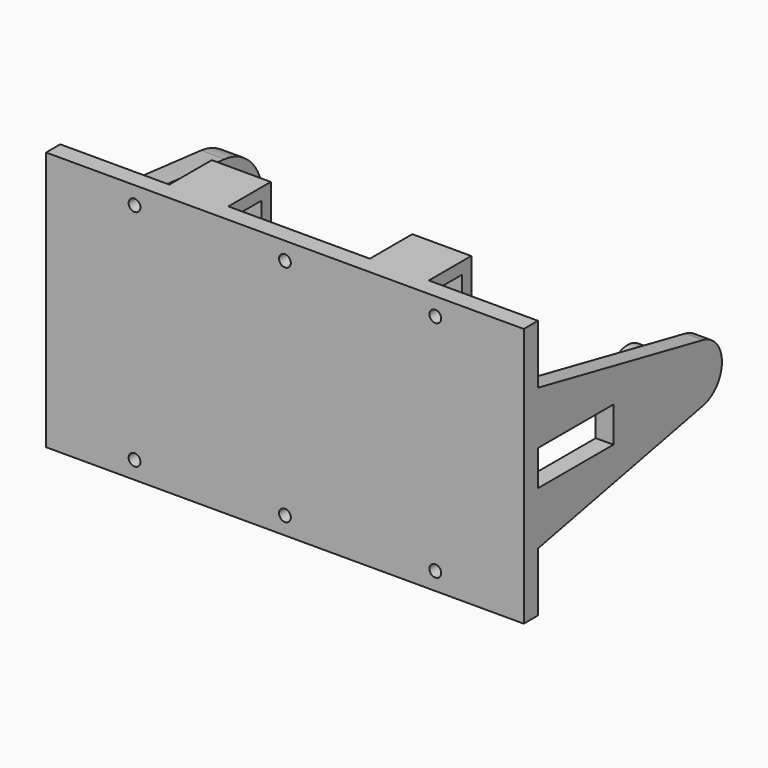
from build123d import *

# Parameters (mm, degrees)
F0_W      = 71
F0_H      = 34
F1_DEPTH  = 3
F2_R      = 1
F3_W      = 2.5
F3_H      = 1.5
F4_DEPTH  = 0.1
F5_W      = 81
F5_H      = 44
F6_DEPTH  = 3
F7_R      = 2.35
F8_DEPTH  = 4
F10_DEPTH = 3
F11_R     = 4
F12_DEPTH = 8
F13_W     = 10
F13_H     = 2
F14_DEPTH = 9
F15_W     = 10
F15_H     = 2
F16_DEPTH = 15
F17_R     = 1
F18_DEPTH = 25


with BuildPart() as f1:
    # F0 (on Front) → F1 (new body, symmetric)
    with BuildSketch(Plane.XZ):
        Rectangle(F0_W, F0_H)
    extrude(amount=F1_DEPTH, both=True)

    # F2
    f2_edges = [f1.edges().sort_by_distance(p)[0] for p in [
        (0, -3, 17),
        (0, 3, 17),
        (35.5, -3, 0),
        (35.5, 3, 0),
        (0, -3, -17),
        (35.5, 0, -17),
        (-35.5, 0, 17),
        (-35.5, -3, 0),
        (-35.5, 3, 0),
        (0, 3, -17),
        (-35.5, 0, -17),
        (35.5, 0, 17),
    ]]
    fillet(f2_edges, radius=F2_R)

    # F3 (on face) → F4 (join)
    with BuildSketch(Plane.YZ.offset(35.5)):
        with Locations((0, 12.75)):
            Rectangle(F3_W, F3_H)
        with Locations((0, 10.25)):
            Rectangle(F3_W, F3_H)
        with Locations((0, 7.75)):
            Rectangle(F3_W, F3_H)
        with Locations((0, 5.25)):
            Rectangle(F3_W, F3_H)
    extrude(amount=F4_DEPTH)


with BuildPart() as f6:
    # F5 (on face) → F6 (new body)
    with BuildSketch(Plane.XZ.offset(3)):
        Rectangle(F5_W, F5_H)
    extrude(amount=F6_DEPTH)

    # F7 (on face) → F8 (join)
    with BuildSketch(Plane(origin=(-40.5, 0, 0), x_dir=(0, -1, 0), z_dir=(-1, 0, 0))):
        with BuildLine():
            ThreePointArc((-26.84491, -8.953473), (-19.898773, -6.679282), (-16.930952, 0))
            ThreePointArc((-16.930952, 0), (-19.898773, 6.679282), (-26.84491, 8.953473))
            ThreePointArc((-26.84491, 8.953473), (-34.930952, 0), (-26.84491, -8.953473))
        make_face()
        with Locations((-25.930952, 0)):
            Circle(F7_R, mode=Mode.SUBTRACT)
        with BuildLine():
            ThreePointArc((-26.84491, 8.953473), (-19.898773, 6.679282), (-16.930952, 0))
            ThreePointArc((-16.930952, 0), (-19.898773, -6.679282), (-26.84491, -8.953473))
            Line((-26.84491, -8.953473), (3, -12))
            Line((3, -12), (3, -3))
            Line((3, -3), (-13, -3))
            Line((-13, -3), (-13, 3))
            Line((-13, 3), (3, 3))
            Line((3, 3), (3, 12))
            Line((3, 12), (-26.84491, 8.953473))
        make_face()
    extrude(amount=-F8_DEPTH)

    # F9 (on face) → F10 (join)
    with BuildSketch(Plane.YZ.offset(40.5)):
        with BuildLine():
            ThreePointArc((31.994176, -4.900165), (34.871103, -3.164579), (36, 0))
            ThreePointArc((36, 0), (34.871103, 3.164579), (31.994176, 4.900165))
            ThreePointArc((31.994176, 4.900165), (26, 0), (31.994176, -4.900165))
        make_face()
        with BuildLine():
            ThreePointArc((31.994176, -4.900165), (26, 0), (31.994176, 4.900165))
            Line((31.994176, 4.900165), (-3, 12))
            Line((-3, 12), (-3, 3))
            Line((-3, 3), (13, 3))
            Line((13, 3), (13, -3))
            Line((13, -3), (-3, -3))
            Line((-3, -3), (-3, -12))
            Line((-3, -12), (31.994176, -4.900165))
        make_face()
    extrude(amount=-F10_DEPTH)

    # F11 (on face) → F12 (join)
    with BuildSketch(Plane.YZ.offset(40.5)):
        with Locations((26, 0)):
            Circle(F11_R)
    extrude(amount=-F12_DEPTH)

    # F13 (on face) → F14 (join)
    with BuildSketch(Plane(origin=(0, -3, 0), x_dir=(-1, 0, 0), z_dir=(0, 1, 0))):
        with Locations((17, 21)):
            Rectangle(F13_W, F13_H)
        with Locations((-17, 21)):
            Rectangle(F13_W, F13_H)
    extrude(amount=F14_DEPTH)

    # F15 (on face) → F16 (join)
    with BuildSketch(Plane(origin=(0, 0, 20), x_dir=(1, 0, 0), z_dir=(0, 0, -1))):
        with Locations((-17, -5)):
            Rectangle(F15_W, F15_H)
        with Locations((17, -5)):
            Rectangle(F15_W, F15_H)
    extrude(amount=F16_DEPTH)

    # F17 (on face) → F18 (cut)
    with BuildSketch(Plane(origin=(0, -3, 0), x_dir=(-1, 0, 0), z_dir=(0, 1, 0))):
        with Locations((25.5, 19)):
            Circle(F17_R)
        with Locations((25.5, -19)):
            Circle(F17_R)
        with Locations((-25.5, 19)):
            Circle(F17_R)
        with Locations((-25.5, -19)):
            Circle(F17_R)
        with Locations((0, -19)):
            Circle(F17_R)
        with Locations((0, 19)):
            Circle(F17_R)
    extrude(amount=-F18_DEPTH, mode=Mode.SUBTRACT)


solid = Compound([f1.part, f6.part])
